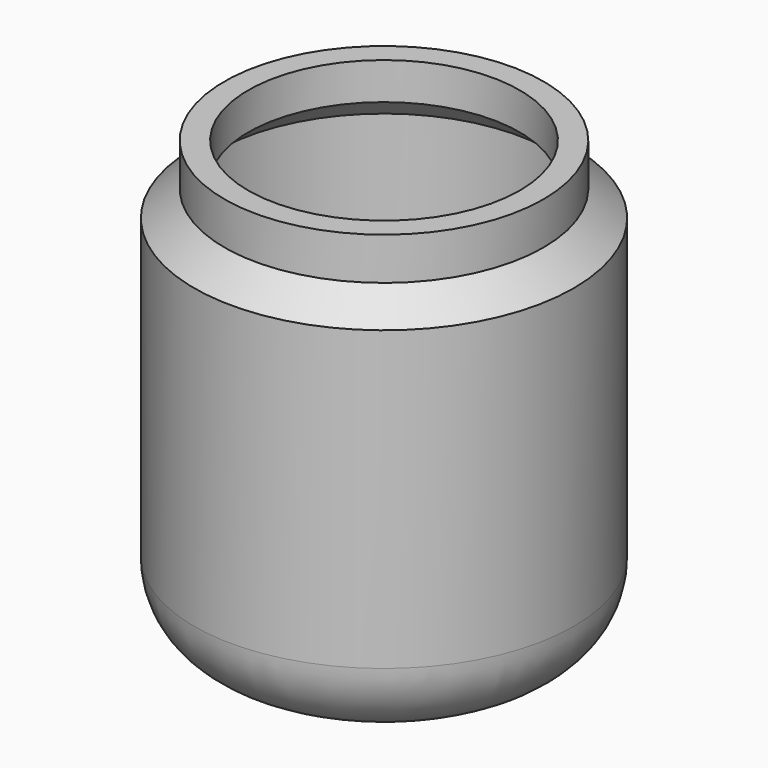
from build123d import *


with BuildPart() as f1:
    # F0 (on Front) → F1 (revolve)
    with BuildSketch(Plane.XZ):
        with BuildLine():
            Line((0, 3.356106), (0, 0))
            Line((0, 0), (18.58723, 0))
            Line((18.58723, 0), (25.380531, -8.585979))
            Line((25.380531, -8.585979), (31.296215, -8.585979))
            ThreePointArc((31.296215, -8.585979), (46.562651, -2.262415), (52.886215, 13.004021))
            Line((52.886215, 13.004021), (52.886215, 95.923768))
            Line((52.886215, 95.923768), (44.437431, 103.140877))
            Line((44.437431, 103.140877), (44.437431, 114.965306))
            Line((44.437431, 114.965306), (37.827797, 114.965306))
            Line((37.827797, 114.965306), (37.827797, 104.651139))
            Line((37.827797, 104.651139), (46.452347, 97.344229))
            Line((46.452347, 97.344229), (46.452347, 10.060597))
            ThreePointArc((46.452347, 10.060597), (45.829909, 8.557899), (44.327212, 7.935461))
            Line((44.327212, 7.935461), (44.437431, 7.935461))
            Line((44.437431, 7.935461), (35.461899, 3.356106))
            Line((35.461899, 3.356106), (0, 3.356106))
        make_face()
    revolve(axis=Axis((0, 0, 37.410337), (0, 0, 1)))


solid = f1.part
